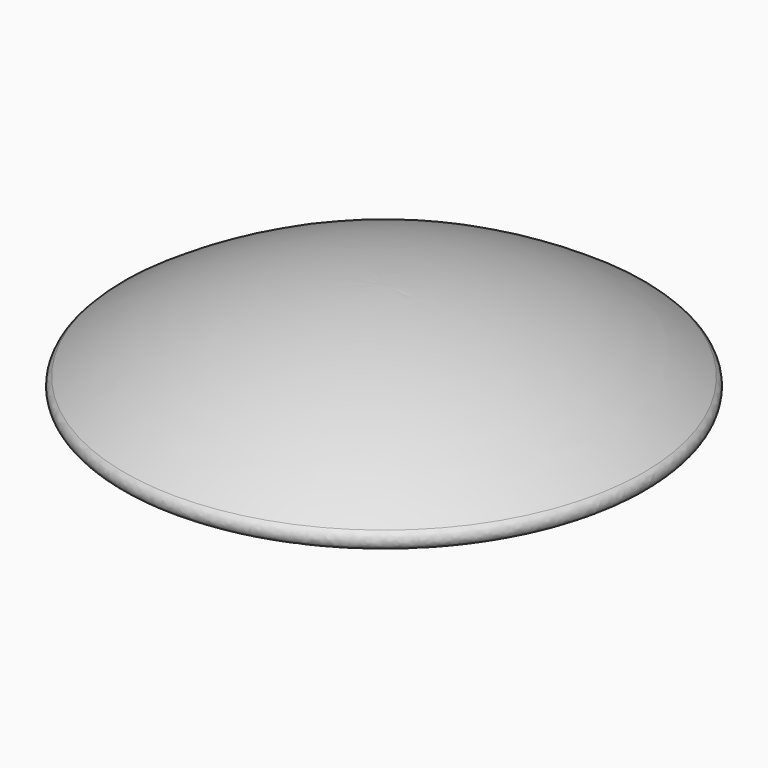
from build123d import *

# Parameters (mm, degrees)
F2_R = 2


with BuildPart() as f1:
    # F0 (on Front) → F1 (revolve)
    with BuildSketch(Plane.XZ):
        with BuildLine():
            Line((0, 20), (0, 0))
            Line((0, 0), (58, 0))
            ThreePointArc((58, 0), (30.656406, 14.803576), (0, 20))
        make_face()
    revolve(axis=Axis((0, 0, 10), (0, 0, 1)))

    # F2
    f2_edges = [f1.edges().sort_by_distance(p)[0] for p in [
        (-58, 0, 0),
    ]]
    fillet(f2_edges, radius=F2_R)


solid = f1.part
